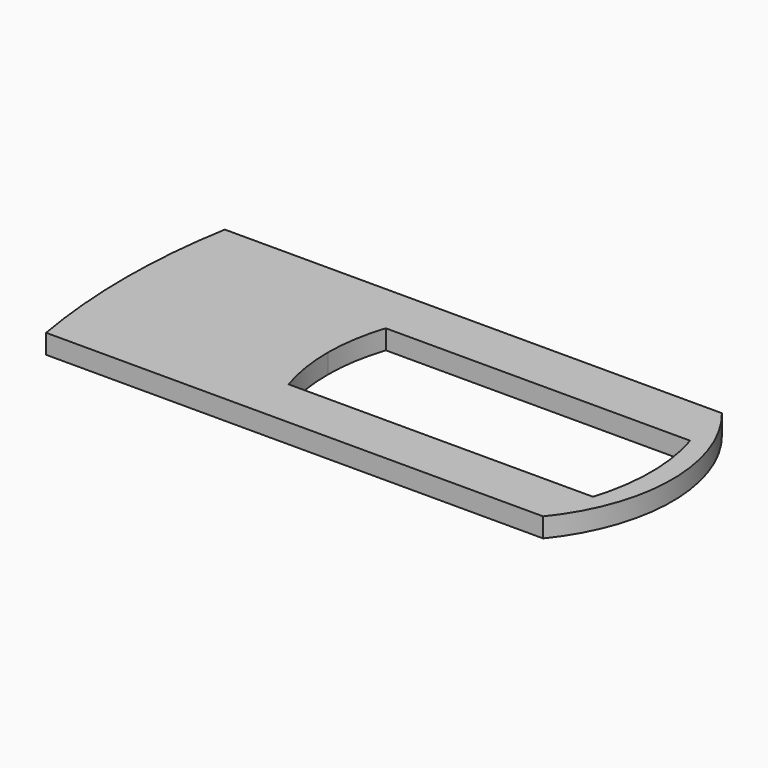
from build123d import *

# Parameters (mm, degrees)
F1_DEPTH = 1.524


with BuildPart() as f1:
    # F0 (on Top) → F1 (new body)
    with BuildSketch(Plane.XY):
        with BuildLine():
            ThreePointArc((18.288, -8.763), (21.397902, 0), (18.288, 8.763))
            Line((18.288, 8.763), (-20.701, 8.763))
            ThreePointArc((-20.701, 8.763), (-21.272141, 4.398034), (-21.463, 0))
            ThreePointArc((-21.463, 0), (-21.272141, -4.398034), (-20.701, -8.763))
            Line((-20.701, -8.763), (18.288, -8.763))
        make_face()
        with BuildLine():
            ThreePointArc((-4.826, -4.826), (-5.401379, -2.443691), (-5.588, 0))
            ThreePointArc((-5.588, 0), (-5.391345, 2.379394), (-4.826, 4.699))
            Line((-4.826, 4.699), (19.05, 4.699))
            ThreePointArc((19.05, 4.699), (19.777522, -0.0635), (19.05, -4.826))
            Line((19.05, -4.826), (-4.826, -4.826))
        make_face(mode=Mode.SUBTRACT)
    extrude(amount=F1_DEPTH)


solid = f1.part
